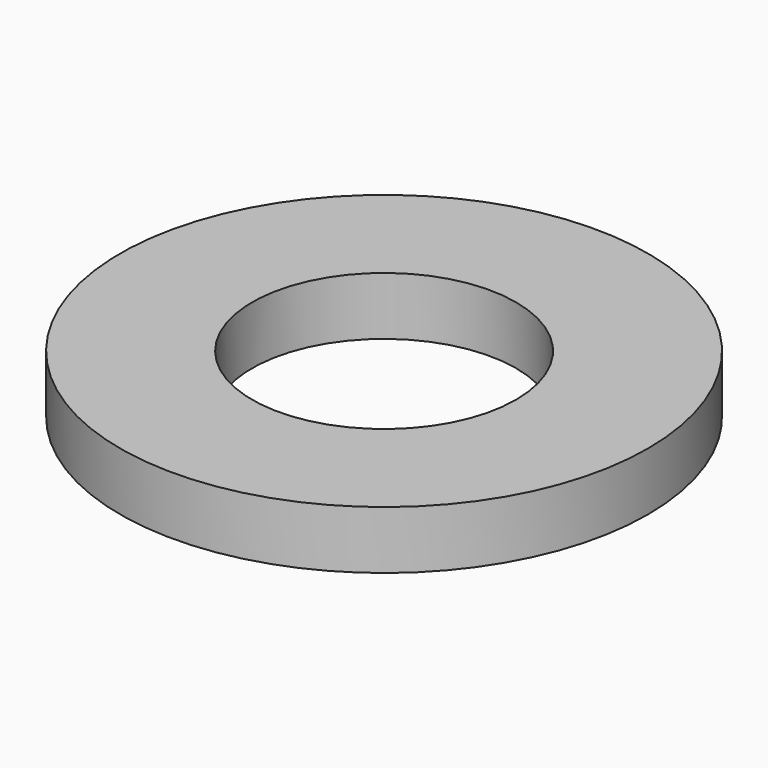
from build123d import *

# Parameters (mm, degrees)
F0_W      = 100
F0_H      = 35
F1_DEPTH  = 18
F2_R      = 12.7
F3_DEPTH  = 19
F4_R      = 25
F4_R_2    = 12.7
F5_DEPTH  = 5.5
F6_R      = 2.5
F7_DEPTH  = 3
F8_W      = 100
F8_H      = 57
F8_H_2    = 18
F9_DEPTH  = 12
F11_DEPTH = 50
F13_D     = 12
F13_DEPTH = 12
F14_W     = 15
F14_H     = 18
F15_DEPTH = 35
F17_W     = 150.604561
F17_H     = 102.203328
F18_DEPTH = 94
F19_R     = 12.5
F20_DEPTH = 25


with BuildPart() as f1:
    # F0 (on Top) → F1 (new body)
    with BuildSketch(Plane.XY):
        Rectangle(F0_W, F0_H)
    extrude(amount=-F1_DEPTH)

    # F2 (on face) → F3 (join)
    with BuildSketch(Plane.XY):
        Circle(F2_R)
    extrude(amount=F3_DEPTH)

    # F4 (on face) → F5 (join)
    with BuildSketch(Plane.XY.offset(19)):
        Circle(F4_R)
        Circle(F4_R_2, mode=Mode.SUBTRACT)
        Circle(F4_R_2)
    extrude(amount=F5_DEPTH)

    # F6 (on face) → F7 (join)
    with BuildSketch(Plane.XY.offset(24.5)):
        Circle(F6_R)
    extrude(amount=F7_DEPTH)

    # F8 (on face) → F9 (join)
    with BuildSketch(Plane.XZ.offset(17.5)):
        with Locations((0, -46.5)):
            Rectangle(F8_W, F8_H)
        with Locations((0, -9)):
            Rectangle(F8_W, F8_H_2)
    extrude(amount=F9_DEPTH)

    # F10 (on face) → F11 (cut)
    with BuildSketch(Plane.XZ.offset(29.5)):
        Polygon((-37.5, -50), (-37.5, 0), (-50, 0), (-50, -75), (50, -75), (50, 0), (37.5, 0), (37.5, -50), align=None)
    extrude(amount=-F11_DEPTH, mode=Mode.SUBTRACT)

    # F13
    with Locations(Plane(origin=(0, -17.5, 0), x_dir=(-1, 0, 0), z_dir=(0, 1, 0))):
        with Locations((-22.5, -35), (22.5, -35)):
            Hole(F13_D / 2, depth=F13_DEPTH)

    # F14 (on face) → F15 (cut)
    with BuildSketch(Plane(origin=(0, 17.5, 0), x_dir=(-1, 0, 0), z_dir=(0, 1, 0))):
        with Locations((-30, -9)):
            Rectangle(F14_W, F14_H)
        with Locations((30, -9)):
            Rectangle(F14_W, F14_H)
    extrude(amount=-F15_DEPTH, mode=Mode.SUBTRACT)

    # F17 (on offset) → F18 (cut)
    with BuildSketch(Plane(origin=(0, -23.5, -75), x_dir=(1, 0, 0), z_dir=(0, 0, -1))):
        with Locations((5.335175, 0.654457)):
            Rectangle(F17_W, F17_H)
    extrude(amount=-F18_DEPTH, mode=Mode.SUBTRACT)

    # F19 (on face) → F20 (cut)
    with BuildSketch(Plane(origin=(0, 0, 19), x_dir=(1, 0, 0), z_dir=(0, 0, -1))):
        Circle(F19_R)
    extrude(amount=-F20_DEPTH, mode=Mode.SUBTRACT)


solid = f1.part
